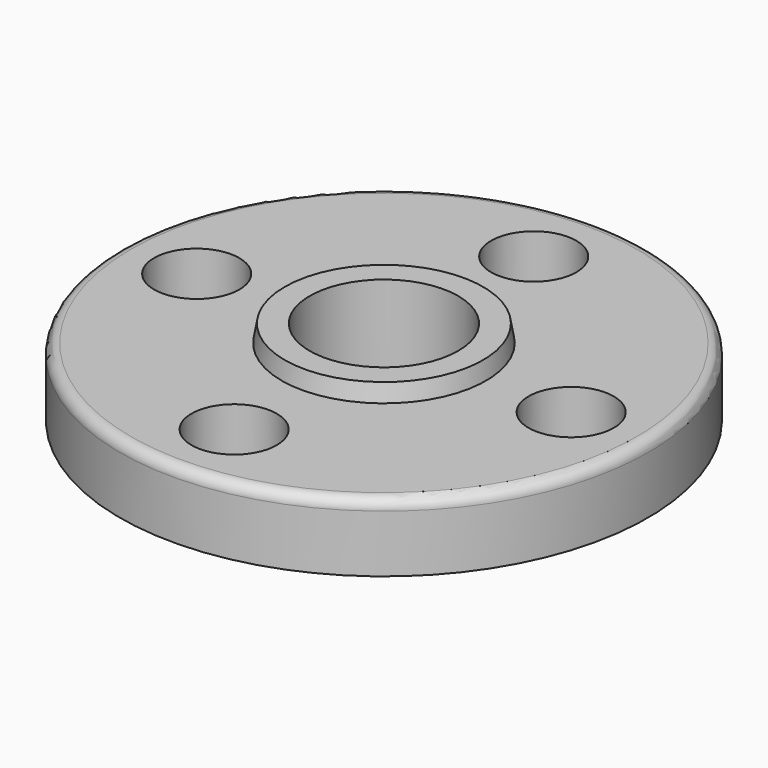
from build123d import *

# Parameters (mm, degrees)
F2_R     = 13.85
F3_DEPTH = 17.501
F4_R     = 7.95
F5_DEPTH = 15.901


with BuildPart() as f1:
    # F0 (on Front) → F1 (revolve)
    with BuildSketch(Plane.XZ):
        with BuildLine():
            Line((-21.45, 0), (0, 0))
            Line((0, 0), (0, 17.5))
            Line((0, 17.5), (-18.485754, 17.5))
            Line((-18.485754, 17.5), (-19.05, 14.3))
            Line((-19.05, 14.3), (-47.2, 14.3))
            ThreePointArc((-47.2, 14.3), (-48.614214, 13.714214), (-49.2, 12.3))
            Line((-49.2, 12.3), (-49.2, 1.6))
            Line((-49.2, 1.6), (-21.45, 1.6))
            Line((-21.45, 1.6), (-21.45, 0))
        make_face()
    revolve(axis=Axis((0, 0, 8.75), (0, 0, -1)))

    # F2 (on face) → F3 (cut, through all)
    with BuildSketch(Plane(origin=(0, 0, 0), x_dir=(1, 0, 0), z_dir=(0, 0, -1))):
        Circle(F2_R)
    extrude(amount=-F3_DEPTH, mode=Mode.SUBTRACT)

    # F4 (on face) → F5 (cut, through all)
    with BuildSketch(Plane(origin=(0, 0, 1.6), x_dir=(1, 0, 0), z_dir=(0, 0, -1))):
        with Locations((0, 34.9)):
            Circle(F4_R)
        with Locations((-34.9, 0)):
            Circle(F4_R)
        with Locations((0, -34.9)):
            Circle(F4_R)
        with Locations((34.9, 0)):
            Circle(F4_R)
    extrude(amount=-F5_DEPTH, mode=Mode.SUBTRACT)


solid = f1.part
